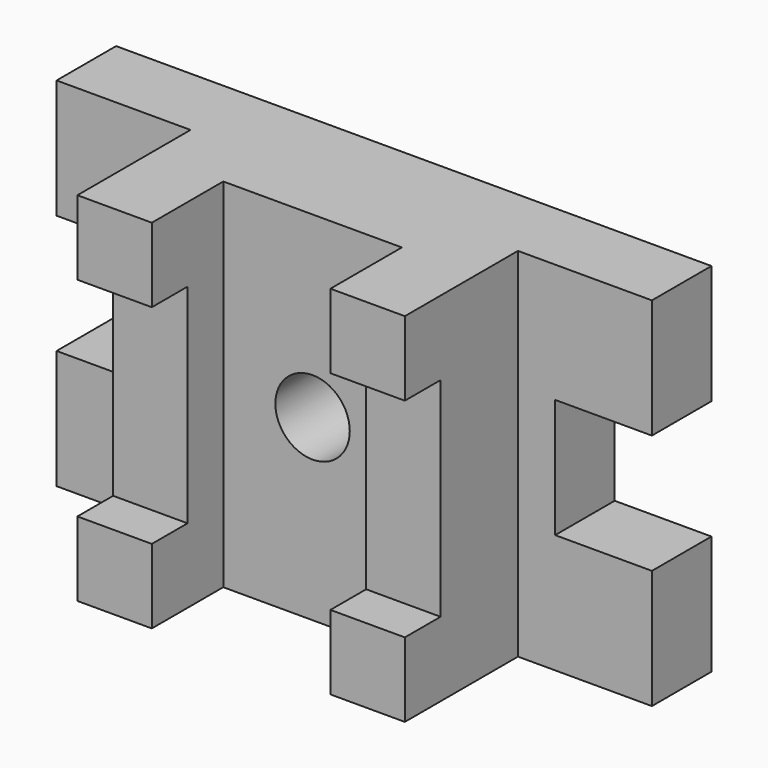
from build123d import *

# Parameters (mm, degrees)
F0_W     = 31.75
F0_H     = 31.75
F0_H_2   = 88.9
F0_R     = 15.875
F1_DEPTH = 31.75
F2_DEPTH = 53.975
F3_DEPTH = 73.025
F4_DEPTH = 92.075


with BuildPart() as f1:
    # F0 (on Front) → F1 (new body)
    with BuildSketch(Plane.XZ):
        Polygon((-54.136139, 78.081693), (-111.286139, 78.081693), (-111.286139, 27.281693), (-70.011139, 27.281693), (-70.011139, -23.518307), (-111.286139, -23.518307), (-111.286139, -74.318307), (-54.136139, -74.318307), (-54.136139, -42.568307), (-54.136139, 46.331693), align=None)
        with Locations((-38.261139, 62.206693)):
            Rectangle(F0_W, F0_H)
        with Locations((-38.261139, 1.881693)):
            Rectangle(F0_W, F0_H_2)
        with Locations((-38.261139, -58.443307)):
            Rectangle(F0_W, F0_H)
        Polygon((53.813861, 78.081693), (-22.386139, 78.081693), (-22.386139, 46.331693), (-22.386139, -42.568307), (-22.386139, -74.318307), (53.813861, -74.318307), (53.813861, -42.568307), (53.813861, 46.331693), align=None)
        with Locations((15.713861, 1.881693)):
            Circle(F0_R, mode=Mode.SUBTRACT)
        with Locations((69.688861, 1.881693)):
            Rectangle(F0_W, F0_H_2)
        with Locations((69.688861, -58.443307)):
            Rectangle(F0_W, F0_H)
        Polygon((142.713861, 78.081693), (85.563861, 78.081693), (85.563861, 46.331693), (85.563861, -42.568307), (85.563861, -74.318307), (142.713861, -74.318307), (142.713861, -23.518307), (101.438861, -23.518307), (101.438861, 27.281693), (142.713861, 27.281693), align=None)
        with Locations((69.688861, 62.206693)):
            Rectangle(F0_W, F0_H)
    extrude(amount=F1_DEPTH)

    # F0 (on Front) → F2 (join)
    with BuildSketch(Plane.XZ):
        with Locations((-38.261139, 1.881693)):
            Rectangle(F0_W, F0_H_2)
        with Locations((-38.261139, 62.206693)):
            Rectangle(F0_W, F0_H)
        with Locations((-38.261139, -58.443307)):
            Rectangle(F0_W, F0_H)
        Polygon((53.813861, 78.081693), (-22.386139, 78.081693), (-22.386139, 46.331693), (-22.386139, -42.568307), (-22.386139, -74.318307), (53.813861, -74.318307), (53.813861, -42.568307), (53.813861, 46.331693), align=None)
        with Locations((15.713861, 1.881693)):
            Circle(F0_R, mode=Mode.SUBTRACT)
        with Locations((69.688861, 1.881693)):
            Rectangle(F0_W, F0_H_2)
        with Locations((69.688861, -58.443307)):
            Rectangle(F0_W, F0_H)
        with Locations((69.688861, 62.206693)):
            Rectangle(F0_W, F0_H)
    extrude(amount=F2_DEPTH)

    # F0 (on Front) → F3 (join)
    with BuildSketch(Plane.XZ):
        with Locations((-38.261139, 62.206693)):
            Rectangle(F0_W, F0_H)
        with Locations((-38.261139, 1.881693)):
            Rectangle(F0_W, F0_H_2)
        with Locations((-38.261139, -58.443307)):
            Rectangle(F0_W, F0_H)
        with Locations((69.688861, -58.443307)):
            Rectangle(F0_W, F0_H)
        with Locations((69.688861, 1.881693)):
            Rectangle(F0_W, F0_H_2)
        with Locations((69.688861, 62.206693)):
            Rectangle(F0_W, F0_H)
    extrude(amount=F3_DEPTH)

    # F0 (on Front) → F4 (join)
    with BuildSketch(Plane.XZ):
        with Locations((-38.261139, 62.206693)):
            Rectangle(F0_W, F0_H)
        with Locations((-38.261139, -58.443307)):
            Rectangle(F0_W, F0_H)
        with Locations((69.688861, 62.206693)):
            Rectangle(F0_W, F0_H)
        with Locations((69.688861, -58.443307)):
            Rectangle(F0_W, F0_H)
    extrude(amount=F4_DEPTH)


solid = f1.part
